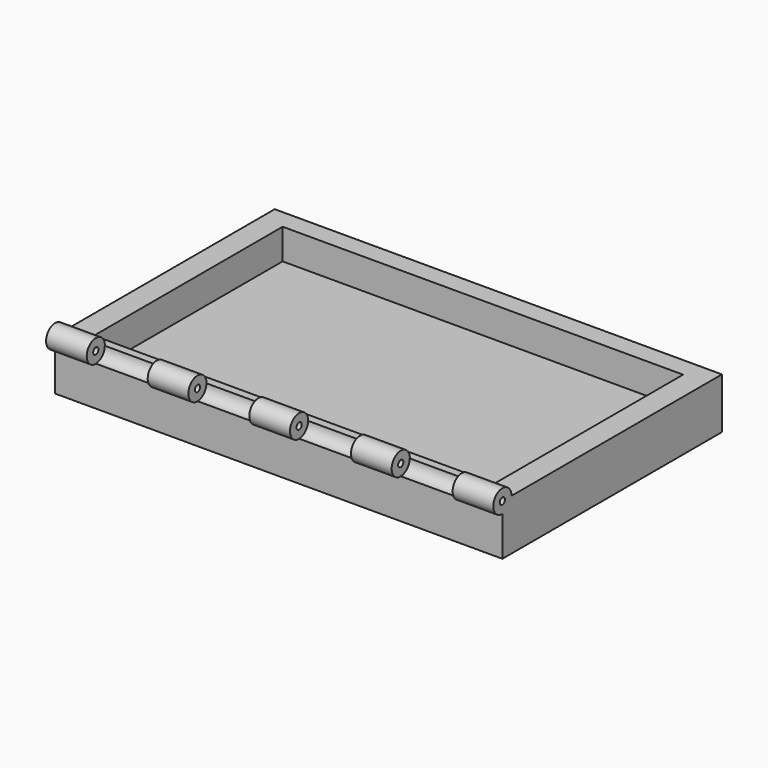
from build123d import *

# Parameters (mm, degrees)
SKETCH_W            = 220
SKETCH_H            = 135
PAD_DEPTH           = 25
SKETCH001_W         = 197
SKETCH001_H         = 116
POCKET_DEPTH        = 15
SKETCH002_R         = 5.5
POCKET001_DEPTH     = 220.001
SKETCH004_R         = 5.6
PAD001_DEPTH        = 20
LINEARPATTERN_COUNT = 5
LINEARPATTERN_PITCH = 50
SKETCH005_R         = 1.6
POCKET002_DEPTH     = 220.001


with BuildPart() as part:
    # Sketch → Pad (new body)
    with BuildSketch(Plane.XY):
        Rectangle(SKETCH_W, SKETCH_H)
    extrude(amount=PAD_DEPTH)

    # Sketch001 (on Face6 of Pad) → Pocket (cut)
    with BuildSketch(Plane.XY.offset(25)):
        Rectangle(SKETCH001_W, SKETCH001_H)
    extrude(amount=-POCKET_DEPTH, mode=Mode.SUBTRACT)

    # Sketch002 (on Face3 of Pocket) → Pocket001 (cut, through all)
    with BuildSketch(Plane.YZ.offset(110)):
        with Locations((-67.5, 25)):
            Circle(SKETCH002_R)
    extrude(amount=-POCKET001_DEPTH, mode=Mode.SUBTRACT)

    # Sketch004 (on Face3 of Pocket001) → Pad001 (join)
    with BuildSketch(Plane.YZ.offset(110)):
        with Locations((-67.5, 25)):
            Circle(SKETCH004_R)
    pad001 = extrude(amount=-PAD001_DEPTH)

    # LinearPattern: Pad001 ×5
    with Locations(*[(-i * LINEARPATTERN_PITCH, 0, 0) for i in range(1, LINEARPATTERN_COUNT)]):
        add(pad001)

    # Sketch005 (on Face31 of LinearPattern) → Pocket002 (cut, through all)
    with BuildSketch(Plane.YZ.offset(110)):
        with Locations((-67.5, 25)):
            Circle(SKETCH005_R)
    extrude(amount=-POCKET002_DEPTH, mode=Mode.SUBTRACT)


solid = part.part
